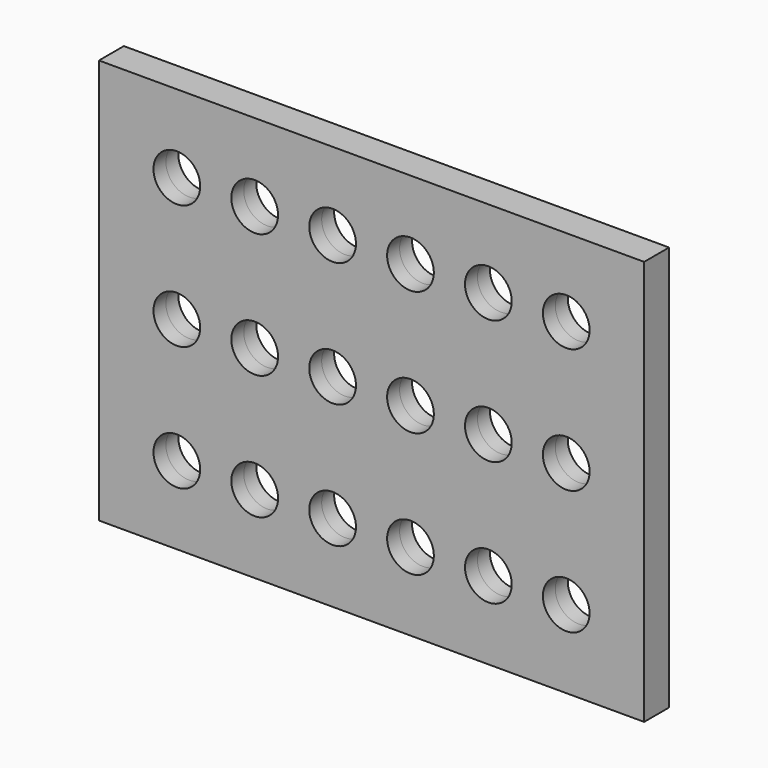
from build123d import *

# Parameters (mm, degrees)
F0_W          = 175
F0_H          = 130
F0_R          = 7.5
F1_DEPTH      = 5
F1_DEPTH_BACK = 5


with BuildPart() as f1:
    # F0 (on Front) → F1 (new body, two sides)
    with BuildSketch(Plane.XZ) as f1_sk:
        Rectangle(F0_W, F0_H)
        with Locations((-62.5, -40)):
            Circle(F0_R, mode=Mode.SUBTRACT)
        with Locations((-37.5, -40)):
            Circle(F0_R, mode=Mode.SUBTRACT)
        with Locations((-12.5, -40)):
            Circle(F0_R, mode=Mode.SUBTRACT)
        with Locations((12.5, -40)):
            Circle(F0_R, mode=Mode.SUBTRACT)
        with Locations((37.5, -40)):
            Circle(F0_R, mode=Mode.SUBTRACT)
        with Locations((62.5, -40)):
            Circle(F0_R, mode=Mode.SUBTRACT)
        with Locations((-62.5, 0)):
            Circle(F0_R, mode=Mode.SUBTRACT)
        with Locations((-37.5, 0)):
            Circle(F0_R, mode=Mode.SUBTRACT)
        with Locations((-12.5, 0)):
            Circle(F0_R, mode=Mode.SUBTRACT)
        with Locations((-62.5, 40)):
            Circle(F0_R, mode=Mode.SUBTRACT)
        with Locations((-37.5, 40)):
            Circle(F0_R, mode=Mode.SUBTRACT)
        with Locations((-12.5, 40)):
            Circle(F0_R, mode=Mode.SUBTRACT)
        with Locations((12.5, 0)):
            Circle(F0_R, mode=Mode.SUBTRACT)
        with Locations((37.5, 0)):
            Circle(F0_R, mode=Mode.SUBTRACT)
        with Locations((62.5, 0)):
            Circle(F0_R, mode=Mode.SUBTRACT)
        with Locations((12.5, 40)):
            Circle(F0_R, mode=Mode.SUBTRACT)
        with Locations((37.5, 40)):
            Circle(F0_R, mode=Mode.SUBTRACT)
        with Locations((62.5, 40)):
            Circle(F0_R, mode=Mode.SUBTRACT)
    extrude(amount=F1_DEPTH)
    extrude(f1_sk.sketch, amount=-F1_DEPTH_BACK)


solid = f1.part
